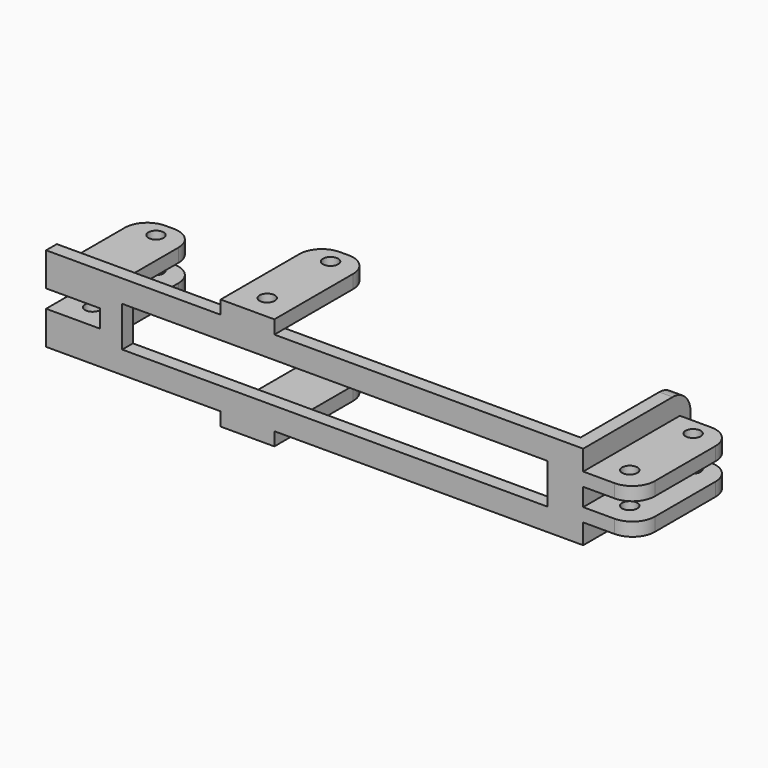
from build123d import *

# Parameters (mm, degrees)
BOX009_W          = 95
BOX009_H          = 5
BOX009_DEPTH      = 9
CYLINDER001_R     = 1.7
CYLINDER001_DEPTH = 31
CYLINDER_R        = 1.7
CYLINDER_DEPTH    = 31
BOX005_W          = 12
BOX005_H          = 27
BOX005_DEPTH      = 3
BOX006_W          = 12
BOX006_H          = 27
BOX006_DEPTH      = 3
BOX007_W          = 12
BOX007_H          = 27
BOX007_DEPTH      = 3
BOX003_W          = 3
BOX003_H          = 30
BOX003_DEPTH      = 19
BOX001_W          = 12
BOX001_H          = 27
BOX001_DEPTH      = 3
BOX002_W          = 12
BOX002_H          = 27
BOX002_DEPTH      = 3
BOX008_W          = 12
BOX008_H          = 10
BOX008_DEPTH      = 4
BOX_W             = 117
BOX_H             = 3
BOX_DEPTH         = 19
BOX004_W          = 12
BOX004_H          = 27
BOX004_DEPTH      = 3
FILLET_R          = 5


with BuildPart() as cube009:
    # Box009 → Box009 (new body)
    with BuildSketch(Plane(origin=(-22, 0, 5), x_dir=(1, 0, 0), z_dir=(0, 0, 1))):
        with Locations((47.5, 2.5)):
            Rectangle(BOX009_W, BOX009_H)
    extrude(amount=BOX009_DEPTH)


with BuildPart() as cylinder001:
    # Cylinder001 → Cylinder001 (new body)
    with BuildSketch(Plane(origin=(6, 23.2, -6), x_dir=(1, 0, 0), z_dir=(0, 0, 1))):
        Circle(CYLINDER001_R)
    extrude(amount=CYLINDER001_DEPTH)


with BuildPart() as cylinder:
    # Cylinder → Cylinder (new body)
    with BuildSketch(Plane(origin=(6, 5.5, -6), x_dir=(1, 0, 0), z_dir=(0, 0, 1))):
        Circle(CYLINDER_R)
    extrude(amount=CYLINDER_DEPTH)


with BuildPart() as fusion002:
    # Fusion002 base: copy of Cylinder
    add(cylinder.part)

    # Fusion002: union Cylinder001
    add(cylinder001.part)


with BuildPart() as fusion002_1:
    # Fusion002 placement: moved
    add(fusion002.part.moved(Location((81, 0, 0))))


with BuildPart() as fusion003:
    # Fusion003 base: copy of Cylinder
    add(cylinder.part)

    # Fusion003: union Cylinder001
    add(cylinder001.part)


with BuildPart() as fusion003_1:
    # Fusion003 placement: moved
    add(fusion003.part.moved(Location((-39, 0, 0))))


with BuildPart() as obj1:
    # Fusion001 base: copy of Cylinder
    add(cylinder.part)

    # Fusion001: union Cylinder001
    add(cylinder001.part)

    # Fusion004: union Fusion002, Fusion003
    add(fusion002_1.part)
    add(fusion003_1.part)


with BuildPart() as cube005:
    # Box005 → Box005 (new body)
    with BuildSketch(Plane(origin=(-39, 0, 11.5), x_dir=(1, 0, 0), z_dir=(0, 0, 1))):
        with Locations((6, 13.5)):
            Rectangle(BOX005_W, BOX005_H)
    extrude(amount=BOX005_DEPTH)


with BuildPart() as cube006:
    # Box006 → Box006 (new body)
    with BuildSketch(Plane(origin=(81, 0, 4.5), x_dir=(1, 0, 0), z_dir=(0, 0, 1))):
        with Locations((6, 13.5)):
            Rectangle(BOX006_W, BOX006_H)
    extrude(amount=BOX006_DEPTH)


with BuildPart() as cube007:
    # Box007 → Box007 (new body)
    with BuildSketch(Plane(origin=(81, 0, 11.5), x_dir=(1, 0, 0), z_dir=(0, 0, 1))):
        with Locations((6, 13.5)):
            Rectangle(BOX007_W, BOX007_H)
    extrude(amount=BOX007_DEPTH)


with BuildPart() as cube003:
    # Box003 → Box003 (new body)
    with BuildSketch(Plane(origin=(78, 0, 0), x_dir=(1, 0, 0), z_dir=(0, 0, 1))):
        with Locations((1.5, 15)):
            Rectangle(BOX003_W, BOX003_H)
    extrude(amount=BOX003_DEPTH)


with BuildPart() as cube001:
    # Box001 → Box001 (new body)
    with BuildSketch(Plane.XY.offset(-3)):
        with Locations((6, 13.5)):
            Rectangle(BOX001_W, BOX001_H)
    extrude(amount=BOX001_DEPTH)


with BuildPart() as cube002:
    # Box002 → Box002 (new body)
    with BuildSketch(Plane.XY.offset(19)):
        with Locations((6, 13.5)):
            Rectangle(BOX002_W, BOX002_H)
    extrude(amount=BOX002_DEPTH)


with BuildPart() as cube008:
    # Box008 → Box008 (new body)
    with BuildSketch(Plane(origin=(-39, -7, 7.5), x_dir=(1, 0, 0), z_dir=(0, 0, 1))):
        with Locations((6, 5)):
            Rectangle(BOX008_W, BOX008_H)
    extrude(amount=BOX008_DEPTH)


with BuildPart() as cut:
    # Box → Box (new body)
    with BuildSketch(Plane(origin=(-39, 0, 0), x_dir=(1, 0, 0), z_dir=(0, 0, 1))):
        with Locations((58.5, 1.5)):
            Rectangle(BOX_W, BOX_H)
    extrude(amount=BOX_DEPTH)

    # Cut: cut Cube008
    add(cube008.part, mode=Mode.SUBTRACT)


with BuildPart() as cut002:
    # Box004 → Box004 (new body)
    with BuildSketch(Plane(origin=(-39, 0, 4.5), x_dir=(1, 0, 0), z_dir=(0, 0, 1))):
        with Locations((6, 13.5)):
            Rectangle(BOX004_W, BOX004_H)
    extrude(amount=BOX004_DEPTH)

    # Fusion: union Cube005, Cube006, Cube007, Cube003, Cube001, Cube002, Cut
    add(cube005.part)
    add(cube006.part)
    add(cube007.part)
    add(cube003.part)
    add(cube001.part)
    add(cube002.part)
    add(cut.part)

    # Cut001: cut obj1
    add(obj1.part, mode=Mode.SUBTRACT)

    # Fillet
    fillet_edges = [cut002.edges().sort_by_distance(p)[0] for p in [
        (93, 0, 6),
        (93, 0, 13),
        (93, 27, 6),
        (93, 27, 13),
        (79.5, 30, 19),
        (79.5, 30, 0),
        (0, 27, 20.5),
        (-39, 27, 13),
        (-39, 27, 6),
        (0, 27, -1.5),
        (12, 27, -1.5),
        (12, 27, 20.5),
        (-27, 27, 13),
        (-27, 27, 6),
    ]]
    fillet(fillet_edges, radius=FILLET_R)

    # Cut002: cut Cube009
    add(cube009.part, mode=Mode.SUBTRACT)


solid = cut002.part
